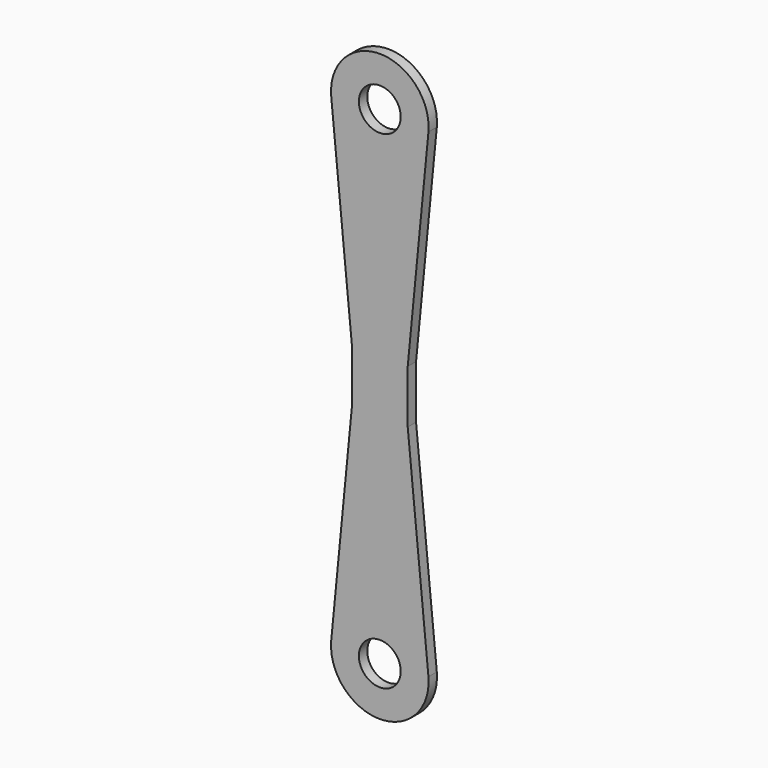
from build123d import *

# Parameters (mm, degrees)
F0_R     = 3
F1_DEPTH = 1.5


with BuildPart() as f1:
    # F0 (on Front) → F1 (new body)
    with BuildSketch(Plane.XZ):
        with BuildLine():
            Line((4, 3.826665), (6.973982, 34.397026))
            ThreePointArc((6.973982, 34.397026), (0, 42), (-6.973982, 34.397026))
            Line((-6.973982, 34.397026), (-4, 3.826665))
            Line((-4, 3.826665), (-4, 0))
            Line((-4, 0), (-4, -3.826665))
            Line((-4, -3.826665), (-6.973982, -34.397026))
            ThreePointArc((-6.973982, -34.397026), (0, -42), (6.973982, -34.397026))
            Line((6.973982, -34.397026), (4, -3.826665))
            Line((4, -3.826665), (4, 0))
            Line((4, 0), (4, 3.826665))
        make_face()
        with Locations((0, -35)):
            Circle(F0_R, mode=Mode.SUBTRACT)
        with Locations((0, 35)):
            Circle(F0_R, mode=Mode.SUBTRACT)
    extrude(amount=F1_DEPTH)


solid = f1.part
